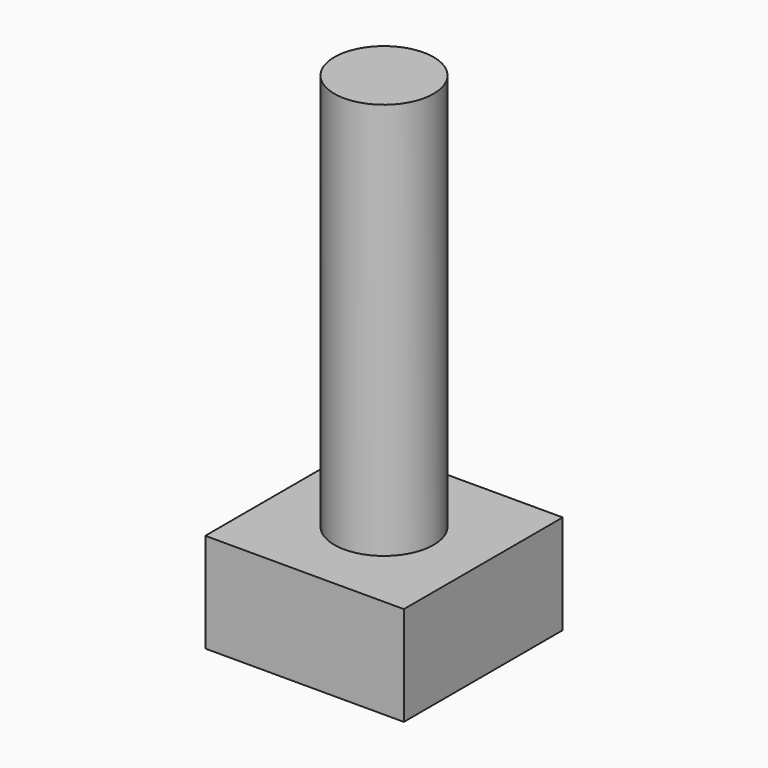
from build123d import *

# Parameters (mm, degrees)
F0_R     = 2.5
F1_DEPTH = 20
F2_W     = 10
F2_H     = 10
F3_DEPTH = 5


with BuildPart() as f1:
    # F0 (on Top) → F1 (new body)
    with BuildSketch(Plane.XY):
        Circle(F0_R)
    extrude(amount=F1_DEPTH)

    # F2 (on face) → F3 (join)
    with BuildSketch(Plane(origin=(0, 0, 0), x_dir=(1, 0, 0), z_dir=(0, 0, -1))):
        Rectangle(F2_W, F2_H)
    extrude(amount=F3_DEPTH)


solid = f1.part
